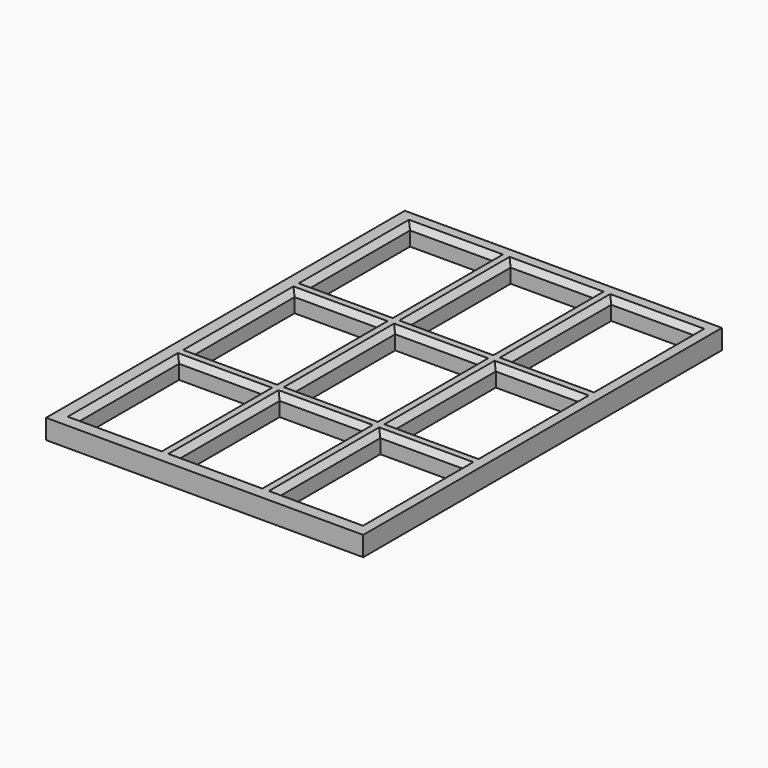
from build123d import *

# Parameters (mm, degrees)
F0_W     = 29
F0_H     = 41
F0_W_2   = 7.6
F0_H_2   = 11.6
F1_DEPTH = 1.8
F2_SIZE  = 0.5


with BuildPart() as f1:
    # F0 (on Top) → F1 (new body)
    with BuildSketch(Plane.XY):
        Rectangle(F0_W, F0_H)
        with Locations((-9.1, -13.1)):
            Rectangle(F0_W_2, F0_H_2, mode=Mode.SUBTRACT)
        with Locations((0.1, -13.1)):
            Rectangle(F0_W_2, F0_H_2, mode=Mode.SUBTRACT)
        with Locations((9.3, -13.1)):
            Rectangle(F0_W_2, F0_H_2, mode=Mode.SUBTRACT)
        with Locations((-9.1, 0.1)):
            Rectangle(F0_W_2, F0_H_2, mode=Mode.SUBTRACT)
        with Locations((-9.1, 13.3)):
            Rectangle(F0_W_2, F0_H_2, mode=Mode.SUBTRACT)
        with Locations((0.1, 0.1)):
            Rectangle(F0_W_2, F0_H_2, mode=Mode.SUBTRACT)
        with Locations((9.3, 0.1)):
            Rectangle(F0_W_2, F0_H_2, mode=Mode.SUBTRACT)
        with Locations((0.1, 13.3)):
            Rectangle(F0_W_2, F0_H_2, mode=Mode.SUBTRACT)
        with Locations((9.3, 13.3)):
            Rectangle(F0_W_2, F0_H_2, mode=Mode.SUBTRACT)
    extrude(amount=F1_DEPTH)

    # F2
    f2_edges = [f1.edges().sort_by_distance(p)[0] for p in [
        (-9.1, 19.1, 1.8),
        (-5.3, 13.3, 1.8),
        (-12.9, 13.3, 1.8),
        (-9.1, 7.5, 1.8),
        (0.1, 7.5, 1.8),
        (3.9, 13.3, 1.8),
        (0.1, 19.1, 1.8),
        (-3.7, 13.3, 1.8),
        (9.3, 19.1, 1.8),
        (13.1, 13.3, 1.8),
        (9.3, 7.5, 1.8),
        (5.5, 13.3, 1.8),
        (-9.1, 5.9, 1.8),
        (-5.3, 0.1, 1.8),
        (-9.1, -5.7, 1.8),
        (-12.9, 0.1, 1.8),
        (-3.7, 0.1, 1.8),
        (0.1, 5.9, 1.8),
        (3.9, 0.1, 1.8),
        (0.1, -5.7, 1.8),
        (9.3, -5.7, 1.8),
        (5.5, 0.1, 1.8),
        (9.3, 5.9, 1.8),
        (13.1, 0.1, 1.8),
        (9.3, -7.3, 1.8),
        (13.1, -13.1, 1.8),
        (9.3, -18.9, 1.8),
        (5.5, -13.1, 1.8),
        (0.1, -7.3, 1.8),
        (-3.7, -13.1, 1.8),
        (0.1, -18.9, 1.8),
        (3.9, -13.1, 1.8),
        (-9.1, -7.3, 1.8),
        (-5.3, -13.1, 1.8),
        (-9.1, -18.9, 1.8),
        (-12.9, -13.1, 1.8),
    ]]
    chamfer(f2_edges, length=F2_SIZE)


solid = f1.part
